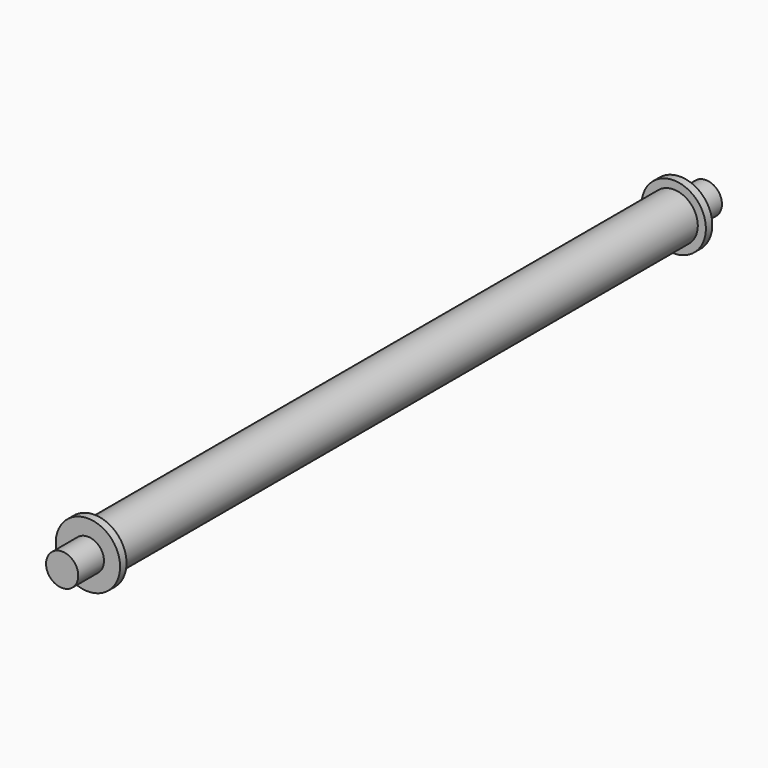
from build123d import *

# Parameters (mm, degrees)
F0_R     = 19.05
F1_DEPTH = 584.2
F3_R     = 25.4
F4_DEPTH = 6.35
F2_R     = 25.4
F2_R_2   = 19.05
F5_DEPTH = 6.35
F6_R     = 12.7
F7_DEPTH = 25.4
F8_R     = 12.7
F9_DEPTH = 25.4


with BuildPart() as f1:
    # F0 (on Front) → F1 (new body)
    with BuildSketch(Plane.XZ):
        Circle(F0_R)
    extrude(amount=F1_DEPTH)

    # F3 (on face) → F4 (join)
    with BuildSketch(Plane.XZ.offset(584.2)):
        Circle(F3_R)
    extrude(amount=-F4_DEPTH)

    # F2 (on face) → F5 (join)
    with BuildSketch(Plane(origin=(0, 0, 0), x_dir=(-1, 0, 0), z_dir=(0, 1, 0))):
        Circle(F2_R)
        Circle(F2_R_2, mode=Mode.SUBTRACT)
    extrude(amount=-F5_DEPTH)

    # F6 (on face) → F7 (join)
    with BuildSketch(Plane.XZ.offset(584.2)):
        Circle(F6_R)
    extrude(amount=F7_DEPTH)

    # F8 (on face) → F9 (join)
    with BuildSketch(Plane(origin=(0, 0, 0), x_dir=(-1, 0, 0), z_dir=(0, 1, 0))):
        Circle(F8_R)
    extrude(amount=F9_DEPTH)


solid = f1.part
